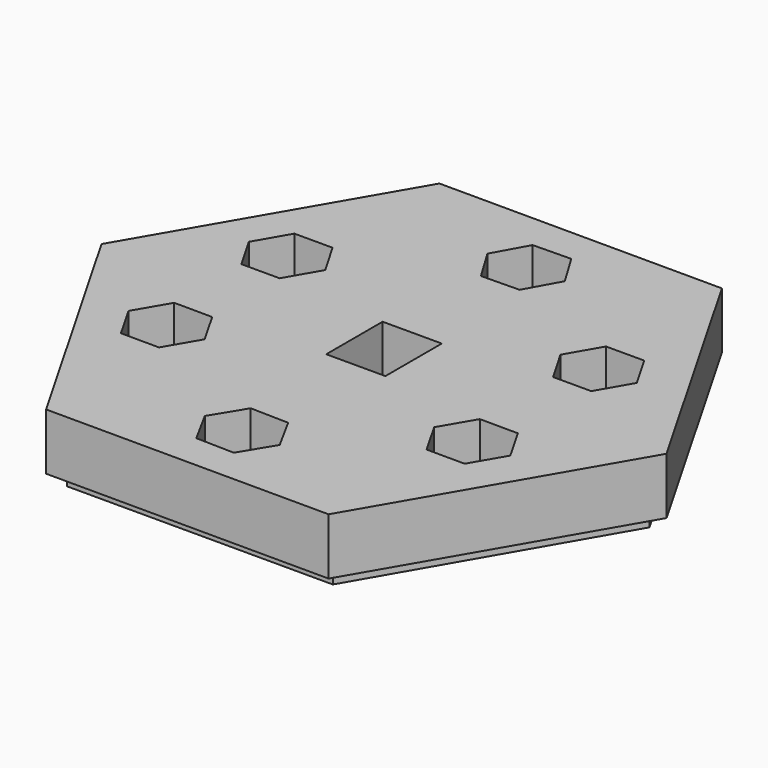
from build123d import *

# Parameters (mm, degrees)
F0_W     = 10.62
F0_H     = 12.65
F1_DEPTH = 10.16
F3_DEPTH = 2.54
F4_DEPTH = 2.54
F5_DEPTH = 2.54
F6_DEPTH = 2.54
F7_DEPTH = 2.54
F8_DEPTH = 2.54


with BuildPart() as f1:
    # F0 (on Top) → F1 (new body)
    with BuildSketch(Plane.XY):
        Polygon((50.799853, -0.122195), (25.505751, 43.932866), (-25.294102, 44.055061), (-50.799853, 0.122195), (-25.505751, -43.932866), (25.294102, -44.055061), align=None)
        Polygon((-3.33668, -25.740905), (3.511563, -25.896048), (6.801327, -31.904372), (3.242847, -37.757553), (-3.605395, -37.60241), (-6.895159, -31.594086), align=None, mode=Mode.SUBTRACT)
        Polygon((-24.849274, -7.47878), (-21.448886, -13.43441), (-24.906419, -19.357047), (-31.76434, -19.324054), (-35.164728, -13.368424), (-31.707195, -7.445787), align=None, mode=Mode.SUBTRACT)
        Polygon((23.739571, -20.126873), (20.339183, -14.171243), (23.796716, -8.248606), (30.654636, -8.281598), (34.055024, -14.237228), (30.597491, -20.159865), align=None, mode=Mode.SUBTRACT)
        Polygon((-21.384008, 13.537441), (-24.813008, 7.598239), (-31.671008, 7.598239), (-35.100008, 13.537441), (-31.671008, 19.476643), (-24.813008, 19.476643), align=None, mode=Mode.SUBTRACT)
        Rectangle(F0_W, F0_H, mode=Mode.SUBTRACT)
        Polygon((34.123123, 14.07323), (30.694123, 8.134028), (23.836123, 8.134028), (20.407123, 14.07323), (23.836123, 20.012433), (30.694123, 20.012433), align=None, mode=Mode.SUBTRACT)
        Polygon((-6.743086, 31.626892), (-3.424455, 37.61932), (3.424455, 37.741515), (6.954734, 31.871283), (3.636104, 25.878855), (-3.212806, 25.75666), align=None, mode=Mode.SUBTRACT)
    extrude(amount=F1_DEPTH)

    # F2 (on face) → F3 (join)
    with BuildSketch(Plane(origin=(0, 0, 0), x_dir=(1, 0, 0), z_dir=(0, 0, -1))):
        Polygon((44.630353, 0.201512), (22.489691, -38.550264), (23.831054, -41.276596), (47.662108, 0), align=None)
    extrude(amount=F3_DEPTH)

    # F2 (on face) → F4 (join)
    with BuildSketch(Plane(origin=(0, 0, 0), x_dir=(1, 0, 0), z_dir=(0, 0, -1))):
        Polygon((22.140662, 38.751775), (44.630353, 0.201512), (47.662108, 0), (23.831054, 41.276596), align=None)
    extrude(amount=F4_DEPTH)

    # F2 (on face) → F5 (join)
    with BuildSketch(Plane(origin=(0, 0, 0), x_dir=(1, 0, 0), z_dir=(0, 0, -1))):
        Polygon((-23.831054, 41.276596), (-22.489691, 38.550264), (22.140662, 38.751775), (23.831054, 41.276596), align=None)
    extrude(amount=F5_DEPTH)

    # F2 (on face) → F6 (join)
    with BuildSketch(Plane(origin=(0, 0, 0), x_dir=(1, 0, 0), z_dir=(0, 0, -1))):
        Polygon((-47.662108, 0), (-44.630353, -0.201512), (-22.489691, 38.550264), (-23.831054, 41.276596), align=None)
    extrude(amount=F6_DEPTH)

    # F2 (on face) → F7 (join)
    with BuildSketch(Plane(origin=(0, 0, 0), x_dir=(1, 0, 0), z_dir=(0, 0, -1))):
        Polygon((-23.831054, -41.276596), (-22.140662, -38.751775), (-44.630353, -0.201512), (-47.662108, 0), align=None)
    extrude(amount=F7_DEPTH)

    # F2 (on face) → F8 (join)
    with BuildSketch(Plane(origin=(0, 0, 0), x_dir=(1, 0, 0), z_dir=(0, 0, -1))):
        Polygon((22.489691, -38.550264), (-22.140662, -38.751775), (-23.831054, -41.276596), (23.831054, -41.276596), align=None)
    extrude(amount=F8_DEPTH)


solid = f1.part
